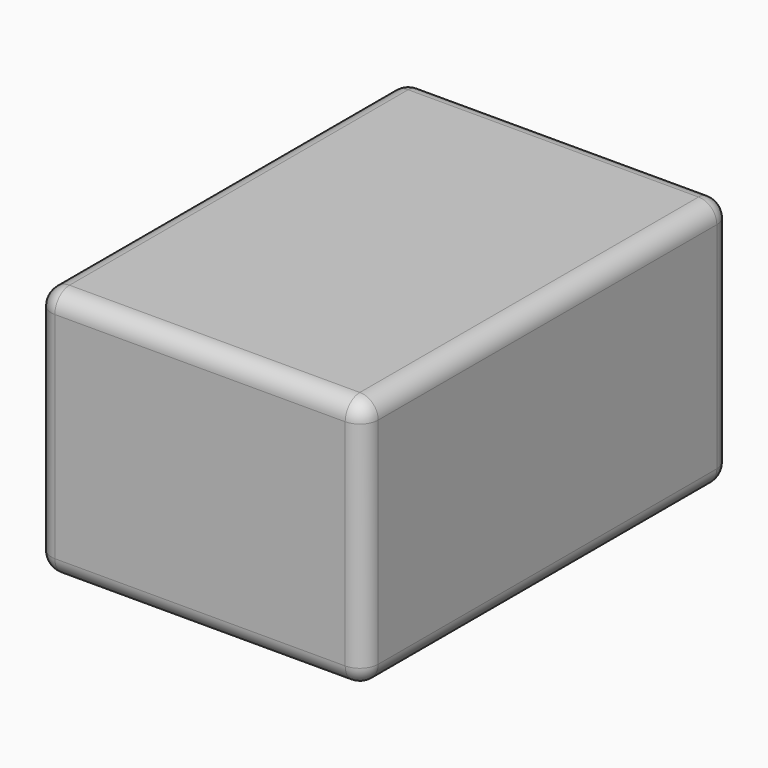
from build123d import *

# Parameters (mm, degrees)
F0_W     = 181.310957
F0_H     = 139.507879
F1_DEPTH = 255.016
F2_R     = 10.16
F3_R     = 10.16


with BuildPart() as f1:
    # F0 (on Front) → F1 (new body)
    with BuildSketch(Plane.XZ):
        with Locations((103.836832, -19.485397)):
            Rectangle(F0_W, F0_H)
    extrude(amount=-F1_DEPTH)

    # F2
    f2_edges = [f1.edges().sort_by_distance(p)[0] for p in [
        (194.49231, 127.508, 50.268542),
    ]]
    fillet(f2_edges, radius=F2_R)

    # F3
    f3_edges = [f1.edges().sort_by_distance(p)[0] for p in [
        (13.181353, 127.508, 50.268542),
        (13.181353, 127.508, -89.239337),
        (98.756832, 255.016, 50.268542),
        (103.836832, 255.016, -89.239337),
        (13.181353, 255.016, -19.485397),
        (194.49231, 255.016, -24.565397),
        (13.181353, 0, -19.485397),
        (103.836832, 0, -89.239337),
        (194.49231, 0, -24.565397),
        (98.756832, 0, 50.268542),
        (194.49231, 127.508, -89.239337),
    ]]
    fillet(f3_edges, radius=F3_R)


solid = f1.part
